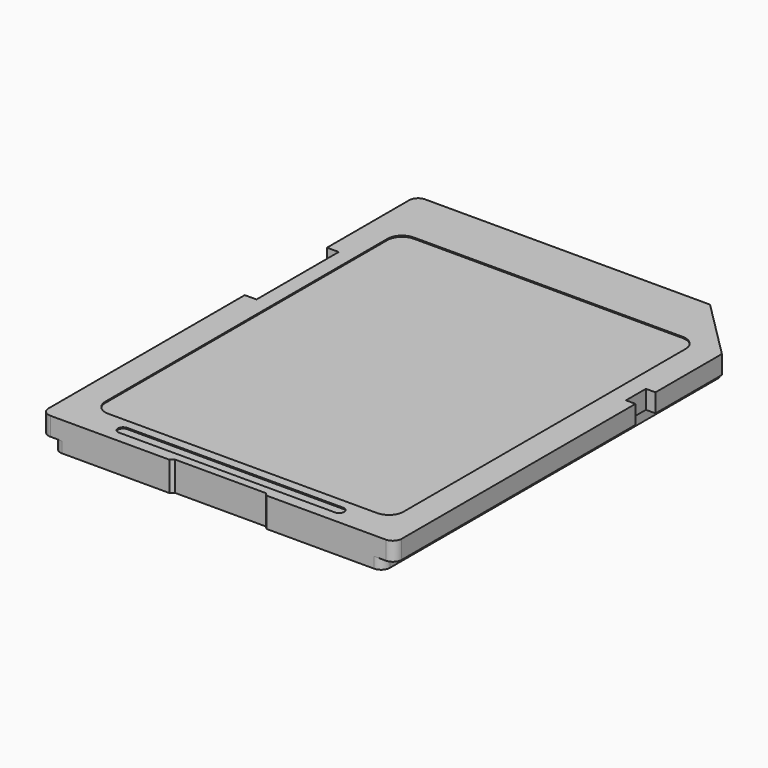
from build123d import *

# Parameters (mm, degrees)
PAD_DEPTH              = 2
POCKET_DEPTH           = 0.08
POCKET001_DEPTH        = 0.08
SKETCH003_W            = 1.9
SKETCH003_H            = 6.6
POCKET002_DEPTH        = 0.55
LINEARPATTERN_COUNT    = 8
LINEARPATTERN_PITCH    = 2.378571
SKETCH004_W            = 2
SKETCH004_H            = 8.6
POCKET003_DEPTH        = 0.55
SKETCH005_W            = 1.9
SKETCH005_H            = 4.9
PAD001_DEPTH           = 0.1
LINEARPATTERN001_COUNT = 8
LINEARPATTERN001_PITCH = 2.378571
PAD002_DEPTH           = 0.1
POCKET004_DEPTH        = 111.893571
SKETCH008_W            = 7
SKETCH008_H            = 0.5
POCKET007_DEPTH        = 0.5
FILLET_R               = 0.6


with BuildPart() as part:
    # Sketch → Pad (new body)
    with BuildSketch(Plane.XY):
        Polygon((-12.021781, 15.95), (7.978219, 15.95), (12.021781, 11.906439), (12.021781, 6.25), (11.371781, 6.25), (11.371781, 4.55), (12.021781, 4.55), (12.021781, -15.95), (3.3, -15.95), (3.1, -15.75), (-3.1, -15.75), (-3.3, -15.95), (-12.021781, -15.95), (-12.021781, 1.35), (-11.221781, 1.35), (-11.221781, 8.35), (-12.021781, 8.35), align=None)
    extrude(amount=PAD_DEPTH)

    # Sketch001 → Pocket (cut)
    with BuildSketch(Plane.XY.offset(2)):
        with BuildLine():
            Line((-9.15, 12.15), (9.15, 12.15))
            ThreePointArc((10.15, 11.15), (9.857107, 11.857107), (9.15, 12.15))
            Line((10.15, 11.15), (10.15, -12.85))
            ThreePointArc((9.15, -13.85), (9.857107, -13.557107), (10.15, -12.85))
            Line((9.15, -13.85), (-9.15, -13.85))
            ThreePointArc((-10.15, -12.85), (-9.857107, -13.557107), (-9.15, -13.85))
            Line((-10.15, -12.85), (-10.15, 11.15))
            ThreePointArc((-9.15, 12.15), (-9.857107, 11.857107), (-10.15, 11.15))
        make_face()
    extrude(amount=-POCKET_DEPTH, mode=Mode.SUBTRACT)

    # Sketch002 → Pocket001 (cut)
    with BuildSketch(Plane.XY.offset(2)):
        with BuildLine():
            ThreePointArc((-7.35, -14.49), (-7.7, -14.84), (-7.35, -15.19))
            Line((-7.35, -15.19), (7.35, -15.19))
            ThreePointArc((7.35, -15.19), (7.7, -14.84), (7.35, -14.49))
            Line((-7.35, -14.49), (7.35, -14.49))
        make_face()
    extrude(amount=-POCKET001_DEPTH, mode=Mode.SUBTRACT)

    # Sketch003 → Pocket002 (cut)
    with BuildSketch(Plane(origin=(0, 0, 0), x_dir=(1, 0, 0), z_dir=(0, 0, -1))):
        with Locations((7.028219, -13.65)):
            Rectangle(SKETCH003_W, SKETCH003_H)
    pocket002 = extrude(amount=-POCKET002_DEPTH, mode=Mode.SUBTRACT)

    # LinearPattern: Pocket002 ×8
    with Locations(*[(-i * LINEARPATTERN_PITCH, 0, 0) for i in range(1, LINEARPATTERN_COUNT)]):
        add(pocket002, mode=Mode.SUBTRACT)

    # Sketch004 → Pocket003 (cut)
    with BuildSketch(Plane(origin=(0, 0, 0), x_dir=(1, 0, 0), z_dir=(0, 0, -1))):
        with Locations((9.678219, -12.65)):
            Rectangle(SKETCH004_W, SKETCH004_H)
    extrude(amount=-POCKET003_DEPTH, mode=Mode.SUBTRACT)

    # Sketch005 → Pad001 (new body)
    with BuildSketch(Plane(origin=(0, 0, 0.55), x_dir=(1, 0, 0), z_dir=(0, 0, -1))):
        with Locations((7.028219, -12.8)):
            Rectangle(SKETCH005_W, SKETCH005_H)
    pad001 = extrude(amount=PAD001_DEPTH)

    # LinearPattern001: Pad001 ×8
    with Locations(*[(-i * LINEARPATTERN001_PITCH, 0, 0) for i in range(1, LINEARPATTERN001_COUNT)]):
        add(pad001)

    # Sketch006 → Pad002 (new body)
    with BuildSketch(Plane(origin=(0, 0, 0.55), x_dir=(1, 0, 0), z_dir=(0, 0, -1))):
        Polygon((8.678219, -8.35), (8.678219, -13.15), (10.17822, -13.15), (10.678219, -12.650001), (10.678219, -8.35), align=None)
    extrude(amount=PAD002_DEPTH)

    # Sketch007 → Pocket004 (cut, through all)
    with BuildSketch(Plane.XZ.offset(15.95)):
        Polygon((-11.221781, 0.74), (-11.221781, -0.191555), (-12.614112, -0.191555), (-12.614112, 0), (-12.614112, 0.74), (-12.021781, 0.74), align=None)
    pocket004 = extrude(amount=-POCKET004_DEPTH, mode=Mode.SUBTRACT)

    # Mirrored: Pocket004 across Sketch007 V_Axis
    add(pocket004.mirror(Plane(origin=(0, -15.95, 0), x_dir=(0, -1, 0), z_dir=(1, 0, 0))), mode=Mode.SUBTRACT)

    # Sketch008 → Pocket007 (cut)
    with BuildSketch(Plane(origin=(-11.221781, 0, 0), x_dir=(0, -1, 0), z_dir=(-1, 0, 0))):
        with Locations((-4.85, 1.45)):
            Rectangle(SKETCH008_W, SKETCH008_H)
    extrude(amount=-POCKET007_DEPTH, mode=Mode.SUBTRACT)

    # Fillet
    fillet_edges = [part.edges().sort_by_distance(p)[0] for p in [
        (-12.021781, -15.95, 1.37),
        (-11.221781, -15.95, 0.37),
        (-12.021781, 15.95, 1.37),
        (11.221781, -15.95, 0.37),
        (12.021781, -15.95, 1.37),
        (-11.221781, 15.95, 0.37),
    ]]
    fillet(fillet_edges, radius=FILLET_R)


solid = part.part
